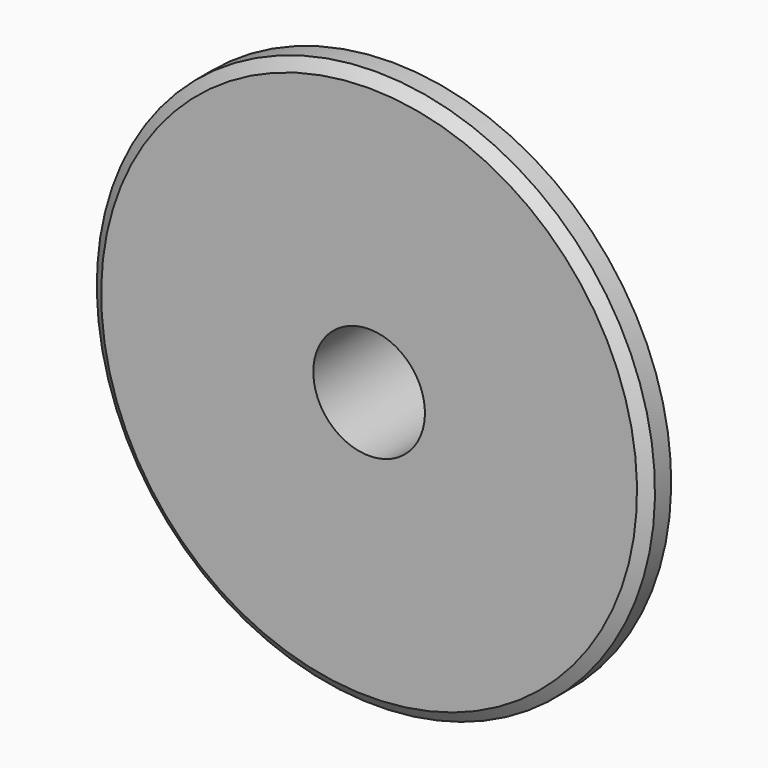
from build123d import *

# Parameters (mm, degrees)
F0_W     = 16.6666666667
F0_H     = 50
F0_W_2   = 48.3333333333
F2_R     = 7.5
F3_SIZE  = 5
F4_SIZE2 = 5
F4_SIZE  = 3.8


with BuildPart() as f1:
    # F0 (on Right) → F1 (revolve)
    with BuildSketch(Plane.YZ):
        with Locations((8.3333333333, 100)):
            Rectangle(F0_W, F0_H)
        with Locations((8.3333333333, 50)):
            Rectangle(F0_W, F0_H)
        with Locations((40.8333333333, 50)):
            Rectangle(F0_W_2, F0_H)
    revolve(axis=Axis((0, 32.5, 0), (0, 1, 0)))

    # F2
    f2_edges = [f1.edges().sort_by_distance(p)[0] for p in [
        (0, 16.666667, -75),
    ]]
    fillet(f2_edges, radius=F2_R)

    # F3
    f3_edges = [f1.edges().sort_by_distance(p)[0] for p in [
        (0, 65, -75),
    ]]
    chamfer(f3_edges, length=F3_SIZE)

    # F4
    f4_edges = [f1.edges().sort_by_distance(p)[0] for p in [
        (0, 0, -125),
        (0, 16.666667, -125),
    ]]
    f4_side = f1.faces().sort_by_distance((0, 8.333333, -125))[0]
    chamfer(f4_edges, length=F4_SIZE, length2=F4_SIZE2, reference=f4_side)


solid = f1.part
